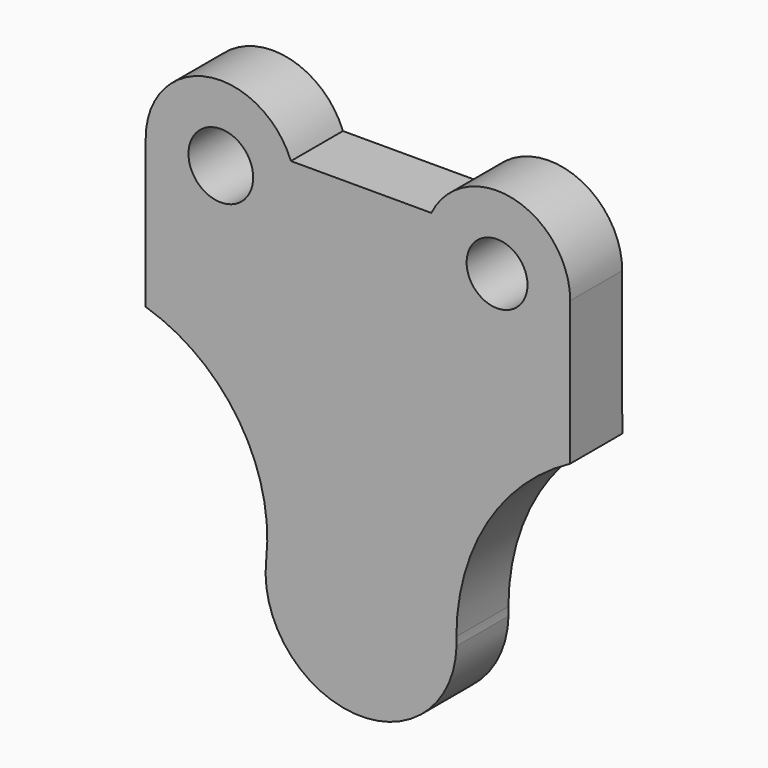
from build123d import *

# Parameters (mm, degrees)
F0_R     = 12.639572
F0_R_2   = 11.88315
F1_DEPTH = 25.4


with BuildPart() as f1:
    # F0 (on Front) → F1 (new body)
    with BuildSketch(Plane.XZ):
        with BuildLine():
            Line((27.448043, 68.576015), (-27.390932, 68.576015))
            ThreePointArc((-27.390932, 68.576015), (-60.105703, 86.910739), (-84.08658, 58.077842))
            Line((-84.08658, 58.077842), (-84.08658, 0))
            ThreePointArc((-84.08658, 0), (-47.588606, -27.462088), (-37.051876, -71.905824))
            ThreePointArc((-37.051876, -71.905824), (-2.635407, -113.336224), (37.278298, -77.171771))
            ThreePointArc((37.278298, -77.171771), (37.23573, -75.532835), (37.225122, -73.893381))
            ThreePointArc((37.225122, -73.893381), (49.262547, -30.813467), (81.686439, 0))
            Line((81.686439, 0), (81.680074, 56.022676))
            ThreePointArc((81.680074, 56.022676), (59.553216, 83.853143), (27.448043, 68.576015))
        make_face()
        with Locations((-54.767519, 58.081741)):
            Circle(F0_R, mode=Mode.SUBTRACT)
        with Locations((53.110417, 56.019429)):
            Circle(F0_R_2, mode=Mode.SUBTRACT)
    extrude(amount=F1_DEPTH)


solid = f1.part
